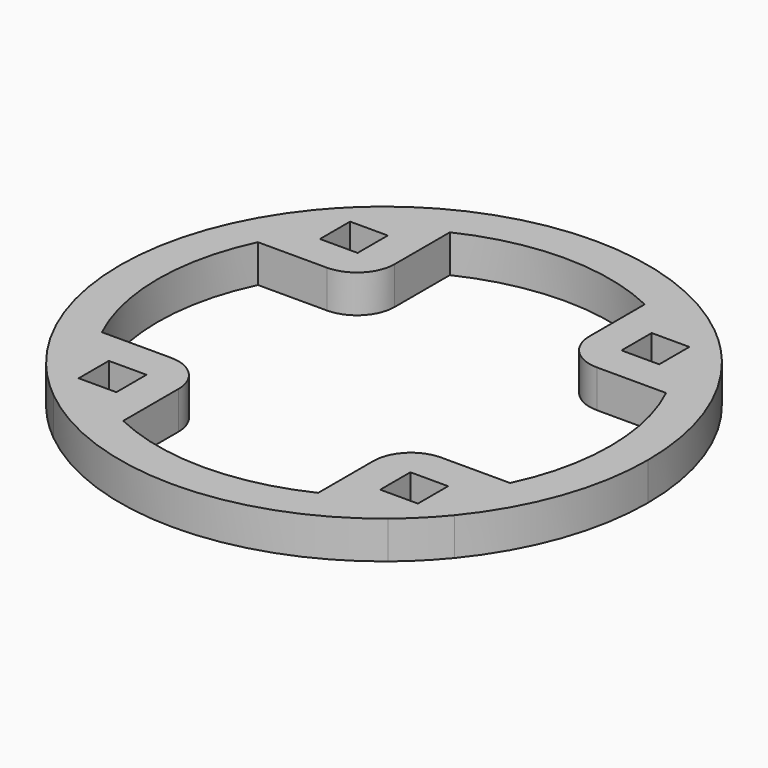
from build123d import *

# Parameters (mm, degrees)
F1_DEPTH = 10
F2_R     = 10


with BuildPart() as f1:
    # F0 (on Top) → F1 (new body)
    with BuildSketch(Plane.XY):
        with BuildLine():
            Line((-54.1421356237, 25.8578643763), (-54.1421356237, 44.3692365283))
            ThreePointArc((-54.1421356237, 44.3692365283), (-70, 0), (-54.1421356237, -44.3692365283))
            Line((-54.1421356237, -44.3692365283), (-54.1421356237, -25.8578643763))
            ThreePointArc((-54.1421356237, -25.8578643763), (-60, 0), (-54.1421356237, 25.8578643763))
        make_face()
        with BuildLine():
            Line((-25.8578643763, 54.1421356237), (-44.3692365283, 54.1421356237))
            ThreePointArc((-44.3692365283, 54.1421356237), (-49.4974746831, 49.4974746831), (-54.1421356237, 44.3692365283))
            Line((-54.1421356237, 44.3692365283), (-54.1421356237, 25.8578643763))
            ThreePointArc((-54.1421356237, 25.8578643763), (-50.0509436697, 33.0893190891), (-45, 39.686269666))
            Line((-45, 39.686269666), (-45, 45))
            Line((-45, 45), (-39.686269666, 45))
            ThreePointArc((-39.686269666, 45), (-33.0893190891, 50.0509436697), (-25.8578643763, 54.1421356237))
        make_face()
        with BuildLine():
            Line((25.8578643763, 54.1421356237), (44.3692365283, 54.1421356237))
            ThreePointArc((44.3692365283, 54.1421356237), (0, 70), (-44.3692365283, 54.1421356237))
            Line((-44.3692365283, 54.1421356237), (-25.8578643763, 54.1421356237))
            ThreePointArc((-25.8578643763, 54.1421356237), (0, 60), (25.8578643763, 54.1421356237))
        make_face()
        with BuildLine():
            Line((54.1421356237, 25.8578643763), (54.1421356237, 44.3692365283))
            ThreePointArc((54.1421356237, 44.3692365283), (49.4974746831, 49.4974746831), (44.3692365283, 54.1421356237))
            Line((44.3692365283, 54.1421356237), (25.8578643763, 54.1421356237))
            ThreePointArc((25.8578643763, 54.1421356237), (33.0893190891, 50.0509436697), (39.686269666, 45))
            Line((39.686269666, 45), (45, 45))
            Line((45, 45), (45, 39.686269666))
            ThreePointArc((45, 39.686269666), (50.0509436697, 33.0893190891), (54.1421356237, 25.8578643763))
        make_face()
        with BuildLine():
            ThreePointArc((54.1421356237, -44.3692365283), (65.9164224365, -23.5589739414), (70, 0))
            ThreePointArc((70, 0), (65.9164224365, 23.5589739414), (54.1421356237, 44.3692365283))
            Line((54.1421356237, 44.3692365283), (54.1421356237, 25.8578643763))
            ThreePointArc((54.1421356237, 25.8578643763), (58.5172117305, 13.2565429614), (60, 0))
            ThreePointArc((60, 0), (58.5172117305, -13.2565429614), (54.1421356237, -25.8578643763))
            Line((54.1421356237, -25.8578643763), (54.1421356237, -44.3692365283))
        make_face()
        with BuildLine():
            ThreePointArc((44.3692365283, -54.1421356237), (49.4974746831, -49.4974746831), (54.1421356237, -44.3692365283))
            Line((54.1421356237, -44.3692365283), (54.1421356237, -25.8578643763))
            ThreePointArc((54.1421356237, -25.8578643763), (50.0509436697, -33.0893190891), (45, -39.686269666))
            Line((45, -39.686269666), (45, -45))
            Line((45, -45), (39.686269666, -45))
            ThreePointArc((39.686269666, -45), (33.0893190891, -50.0509436697), (25.8578643763, -54.1421356237))
            Line((25.8578643763, -54.1421356237), (44.3692365283, -54.1421356237))
        make_face()
        with BuildLine():
            ThreePointArc((-44.3692365283, -54.1421356237), (0, -70), (44.3692365283, -54.1421356237))
            Line((44.3692365283, -54.1421356237), (25.8578643763, -54.1421356237))
            ThreePointArc((25.8578643763, -54.1421356237), (0, -60), (-25.8578643763, -54.1421356237))
            Line((-25.8578643763, -54.1421356237), (-44.3692365283, -54.1421356237))
        make_face()
        with BuildLine():
            ThreePointArc((-54.1421356237, -44.3692365283), (-49.4974746831, -49.4974746831), (-44.3692365283, -54.1421356237))
            Line((-44.3692365283, -54.1421356237), (-25.8578643763, -54.1421356237))
            ThreePointArc((-25.8578643763, -54.1421356237), (-33.0893190891, -50.0509436697), (-39.686269666, -45))
            Line((-39.686269666, -45), (-45, -45))
            Line((-45, -45), (-45, -39.686269666))
            ThreePointArc((-45, -39.686269666), (-50.0509436697, -33.0893190891), (-54.1421356237, -25.8578643763))
            Line((-54.1421356237, -25.8578643763), (-54.1421356237, -44.3692365283))
        make_face()
        Polygon((-35, -40), (-25.8578643763, -40), (-25.8578643763, -25.8578643763), (-40, -25.8578643763), (-40, -35), (-35, -35), align=None)
        with BuildLine():
            Line((-40, -25.8578643763), (-54.1421356237, -25.8578643763))
            ThreePointArc((-54.1421356237, -25.8578643763), (-50.0509436697, -33.0893190891), (-45, -39.686269666))
            Line((-45, -39.686269666), (-45, -35))
            Line((-45, -35), (-40, -35))
            Line((-40, -35), (-40, -25.8578643763))
        make_face()
        with BuildLine():
            ThreePointArc((-39.686269666, -45), (-33.0893190891, -50.0509436697), (-25.8578643763, -54.1421356237))
            Line((-25.8578643763, -54.1421356237), (-25.8578643763, -40))
            Line((-25.8578643763, -40), (-35, -40))
            Line((-35, -40), (-35, -45))
            Line((-35, -45), (-39.686269666, -45))
        make_face()
        with BuildLine():
            Line((25.8578643763, -40), (25.8578643763, -54.1421356237))
            ThreePointArc((25.8578643763, -54.1421356237), (33.0893190891, -50.0509436697), (39.686269666, -45))
            Line((39.686269666, -45), (35, -45))
            Line((35, -45), (35, -40))
            Line((35, -40), (25.8578643763, -40))
        make_face()
        Polygon((40, -35), (40, -25.8578643763), (25.8578643763, -25.8578643763), (25.8578643763, -40), (35, -40), (35, -35), align=None)
        with BuildLine():
            ThreePointArc((45, -39.686269666), (50.0509436697, -33.0893190891), (54.1421356237, -25.8578643763))
            Line((54.1421356237, -25.8578643763), (40, -25.8578643763))
            Line((40, -25.8578643763), (40, -35))
            Line((40, -35), (45, -35))
            Line((45, -35), (45, -39.686269666))
        make_face()
        with BuildLine():
            Line((40, 25.8578643763), (54.1421356237, 25.8578643763))
            ThreePointArc((54.1421356237, 25.8578643763), (50.0509436697, 33.0893190891), (45, 39.686269666))
            Line((45, 39.686269666), (45, 35))
            Line((45, 35), (40, 35))
            Line((40, 35), (40, 25.8578643763))
        make_face()
        Polygon((25.8578643763, 25.8578643763), (40, 25.8578643763), (40, 35), (35, 35), (35, 40), (25.8578643763, 40), align=None)
        with BuildLine():
            ThreePointArc((39.686269666, 45), (33.0893190891, 50.0509436697), (25.8578643763, 54.1421356237))
            Line((25.8578643763, 54.1421356237), (25.8578643763, 40))
            Line((25.8578643763, 40), (35, 40))
            Line((35, 40), (35, 45))
            Line((35, 45), (39.686269666, 45))
        make_face()
        with BuildLine():
            Line((-25.8578643763, 40), (-25.8578643763, 54.1421356237))
            ThreePointArc((-25.8578643763, 54.1421356237), (-33.0893190891, 50.0509436697), (-39.686269666, 45))
            Line((-39.686269666, 45), (-35, 45))
            Line((-35, 45), (-35, 40))
            Line((-35, 40), (-25.8578643763, 40))
        make_face()
        Polygon((-25.8578643763, 25.8578643763), (-25.8578643763, 40), (-35, 40), (-35, 35), (-40, 35), (-40, 25.8578643763), align=None)
        with BuildLine():
            ThreePointArc((-45, 39.686269666), (-50.0509436697, 33.0893190891), (-54.1421356237, 25.8578643763))
            Line((-54.1421356237, 25.8578643763), (-40, 25.8578643763))
            Line((-40, 25.8578643763), (-40, 35))
            Line((-40, 35), (-45, 35))
            Line((-45, 35), (-45, 39.686269666))
        make_face()
    extrude(amount=F1_DEPTH)

    # F2
    f2_edges = [f1.edges().sort_by_distance(p)[0] for p in [
        (25.857864, 25.857864, 5),
        (25.857864, -25.857864, 5),
        (-25.857864, 25.857864, 5),
        (-25.857864, -25.857864, 5),
    ]]
    fillet(f2_edges, radius=F2_R)


solid = f1.part
